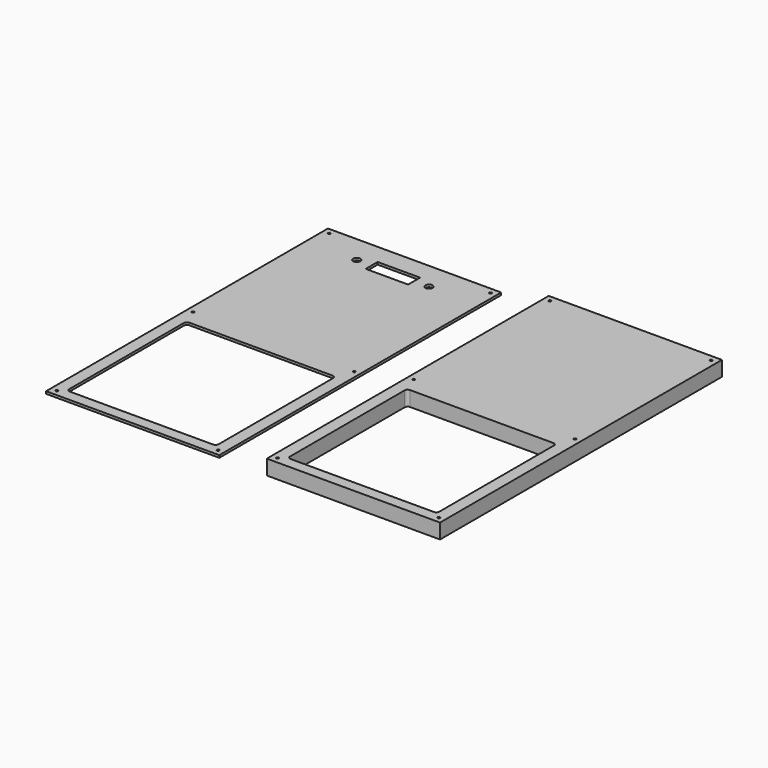
from build123d import *

# Parameters (mm, degrees)
F0_W     = 290
F0_H     = 590
F0_W_2   = 250
F0_H_2   = 250
F0_R     = 6
F0_W_3   = 71
F0_H_3   = 25
F1_DEPTH = 4
F3_D     = 4
F4_W     = 290
F4_H     = 590
F4_W_2   = 250
F4_H_2   = 250
F5_DEPTH = 25
F7_D     = 4
F8_R     = 5
F9_R     = 5


with BuildPart() as f1:
    # F0 (on Top) → F1 (new body)
    with BuildSketch(Plane.XY):
        with Locations((-61, 103.801025)):
            Rectangle(F0_W, F0_H)
        with Locations((-61, -47.698975)):
            Rectangle(F0_W_2, F0_H_2, mode=Mode.SUBTRACT)
        with Locations((-121, 352.801025)):
            Circle(F0_R, mode=Mode.SUBTRACT)
        with Locations((-60.5, 352.801025)):
            Rectangle(F0_W_3, F0_H_3, mode=Mode.SUBTRACT)
        with Locations((0, 352.801025)):
            Circle(F0_R, mode=Mode.SUBTRACT)
    extrude(amount=F1_DEPTH)

    # F3 (through all)
    with Locations(Plane.XY.offset(4)):
        with Locations((-196, 388.801025), (74, 388.801025), (74, 103.801025), (-196, 103.801025), (-196, -181.198975), (74, -181.198975)):
            Hole(F3_D / 2)

    # F9
    f9_edges = [f1.edges().sort_by_distance(p)[0] for p in [
        (64, 77.301025, 2),
        (-186, 77.301025, 2),
        (64, -172.698975, 2),
        (-186, -172.698975, 2),
    ]]
    fillet(f9_edges, radius=F9_R)


with BuildPart() as f5:
    # F4 (on Top) → F5 (new body)
    with BuildSketch(Plane.XY):
        with Locations((308.829527, 103.532581)):
            Rectangle(F4_W, F4_H)
        with Locations((308.829527, -47.967419)):
            Rectangle(F4_W_2, F4_H_2, mode=Mode.SUBTRACT)
    extrude(amount=F5_DEPTH)

    # F7 (through all)
    with Locations(Plane.XY.offset(25)):
        with Locations((173.829527, 388.532581), (443.829527, 388.532581), (443.829527, 103.532581), (173.829527, 103.532581), (173.829527, -181.467419), (443.829527, -181.467419)):
            Hole(F7_D / 2)

    # F8
    f8_edges = [f5.edges().sort_by_distance(p)[0] for p in [
        (433.829527, 77.032581, 12.5),
        (183.829527, 77.032581, 12.5),
        (433.829527, -172.967419, 12.5),
        (183.829527, -172.967419, 12.5),
    ]]
    fillet(f8_edges, radius=F8_R)


solid = Compound([f1.part, f5.part])
